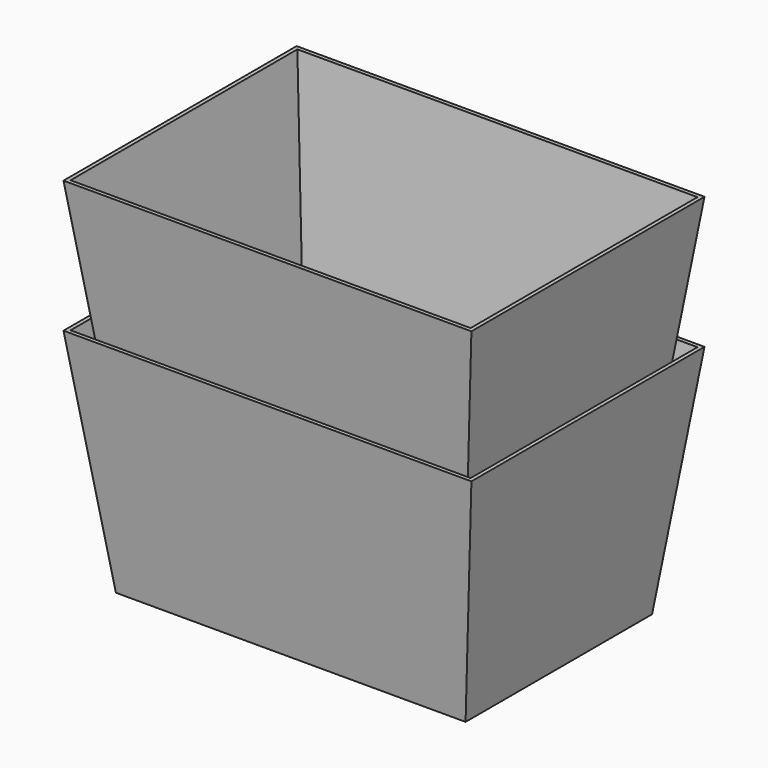
from build123d import *

# Parameters (mm, degrees)
F0_W = 457.2
F0_H = 304.8
F2_W = 533.4
F2_H = 381
F4_T = -5.08


with BuildPart() as f3:
    # F0 (on Top) → F3 section 0
    with BuildSketch(Plane.XY):
        Rectangle(F0_W, F0_H)
    # F2 (on offset) → F3 section 1
    with BuildSketch(Plane.XY.offset(304.8)):
        Rectangle(F2_W, F2_H)
    loft()

    # F4
    f4_openings = [f3.faces().sort_by_distance(p)[0] for p in [
        (0, 0, 304.8),
    ]]
    offset(amount=F4_T, openings=f4_openings, kind=Kind.INTERSECTION)


with BuildPart() as f5_1:
    # F5: copy of F3
    add(f3.part.moved(Location((0, 0, 172.72))))


solid = Compound([f3.part, f5_1.part])
